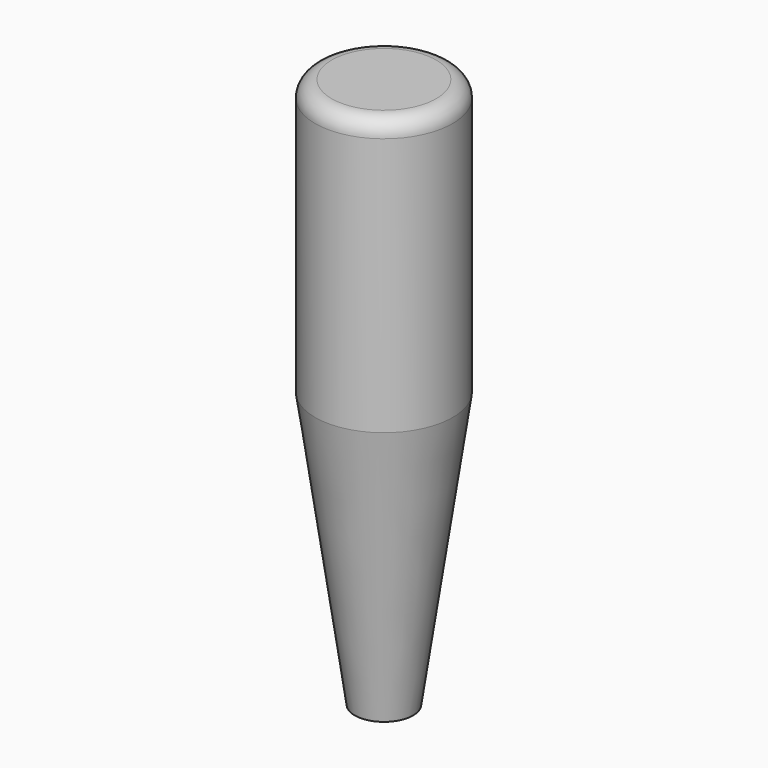
from build123d import *


with BuildPart() as f1:
    # F0 (on Front) → F1 (revolve)
    with BuildSketch(Plane.XZ):
        with BuildLine():
            Line((-5.296609, 0), (0, 0))
            Line((0, 0), (0, 100))
            Line((0, 100), (-9.5, 100))
            ThreePointArc((-9.5, 100), (-11.62132, 99.12132), (-12.5, 97))
            Line((-12.5, 97), (-12.5, 50))
            Line((-12.5, 50), (-5.296609, 0))
        make_face()
    revolve(axis=Axis((0, 0, 50), (0, 0, 1)))


solid = f1.part
